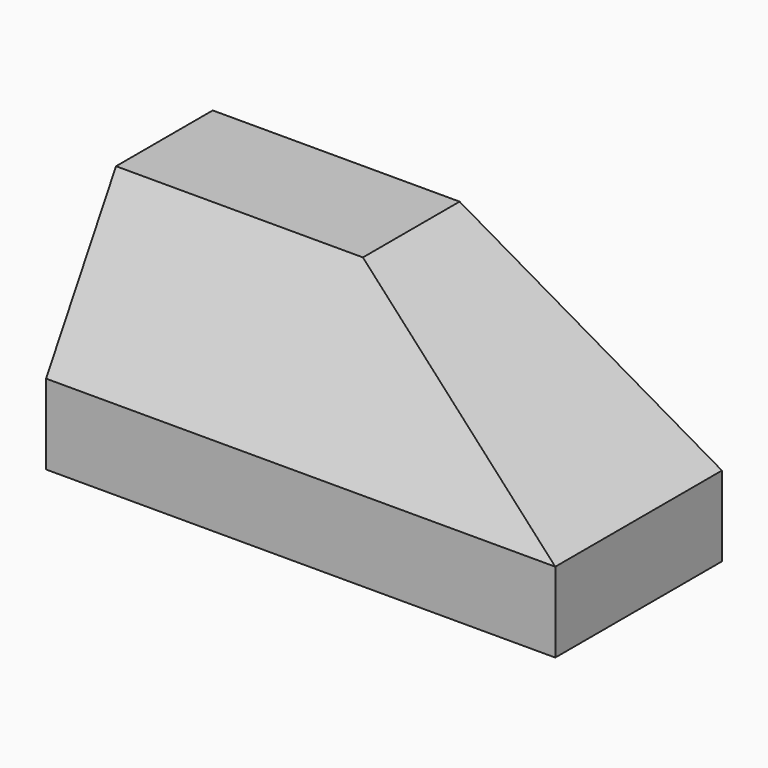
from build123d import *

# Parameters (mm, degrees)
F1_DEPTH = 27
F3_DEPTH = 66.001


with BuildPart() as f1:
    # F0 (on Front) → F1 (new body)
    with BuildSketch(Plane.XZ):
        Polygon((0, 30), (0, 0), (66, 0), (66, 10.370091), (32, 30), align=None)
    extrude(amount=F1_DEPTH)

    # F2 (on face) → F3 (cut, through all)
    with BuildSketch(Plane(origin=(0, 0, 0), x_dir=(0, -1, 0), z_dir=(-1, 0, 0))):
        Polygon((15.666667, 30), (27, 10.370091), (27, 30), align=None)
    extrude(amount=-F3_DEPTH, mode=Mode.SUBTRACT)


solid = f1.part
